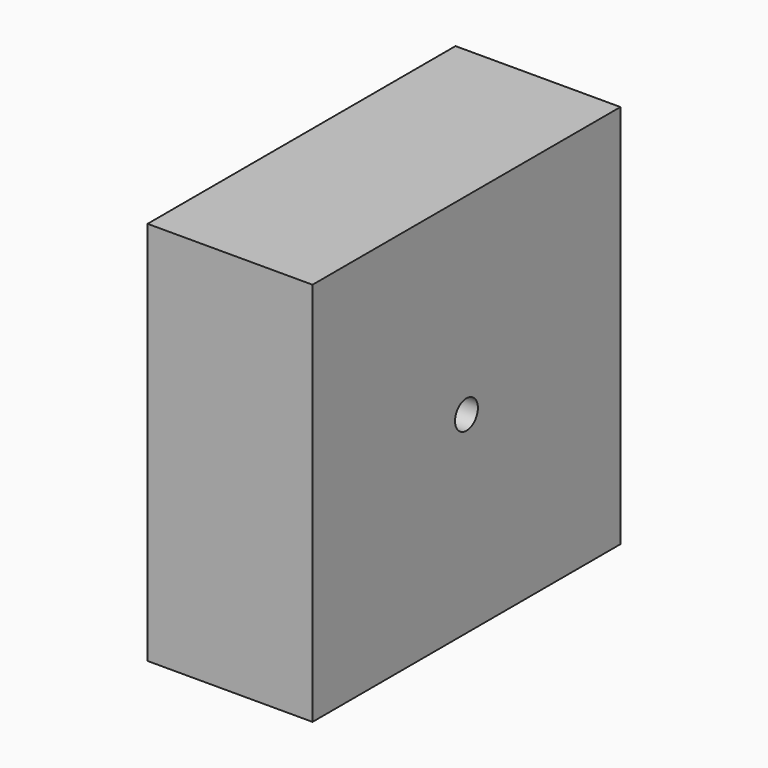
from build123d import *

# Parameters (mm, degrees)
F0_W     = 38.1
F0_H     = 88.9
F1_DEPTH = 88.9
F2_R     = 3.302
F3_DEPTH = 38.101


with BuildPart() as f1:
    # F0 (on Front) → F1 (new body)
    with BuildSketch(Plane.XZ):
        Rectangle(F0_W, F0_H)
    extrude(amount=F1_DEPTH)

    # F2 (on face) → F3 (cut, through all)
    with BuildSketch(Plane(origin=(-19.05, 0, 0), x_dir=(0, -1, 0), z_dir=(-1, 0, 0))):
        with Locations((44.45, 0)):
            Circle(F2_R)
    extrude(amount=-F3_DEPTH, mode=Mode.SUBTRACT)


solid = f1.part
